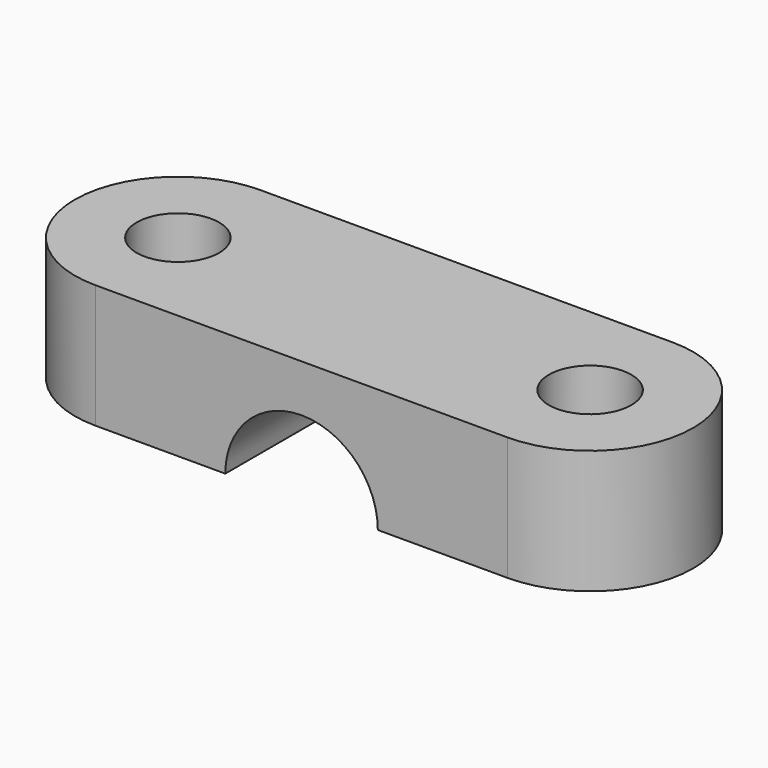
from build123d import *

# Parameters (mm, degrees)
SKETCH_R       = 2
PAD_DEPTH      = 6
CYLINDER_R     = 3.7
CYLINDER_DEPTH = 10


with BuildPart() as part:
    # Sketch → Pad (new body)
    with BuildSketch(Plane.XY):
        with BuildLine():
            ThreePointArc((2.9e-05, 5), (-5, 1e-05), (1e-05, -5))
            Line((1e-05, -5), (20.00001, -5))
            ThreePointArc((20.00001, -5), (25.000039, -1e-05), (20.000029, 5))
            Line((2.9e-05, 5), (20.000029, 5))
        make_face()
        Circle(SKETCH_R, mode=Mode.SUBTRACT)
        with Locations((20.000039, 0)):
            Circle(SKETCH_R, mode=Mode.SUBTRACT)
    extrude(amount=PAD_DEPTH)

    # Cylinder → Cylinder (cut)
    with BuildSketch(Plane(origin=(10, 5, 0), x_dir=(1, 0, 0), z_dir=(0, -1, 0))):
        Circle(CYLINDER_R)
    extrude(amount=CYLINDER_DEPTH, mode=Mode.SUBTRACT)


solid = part.part
